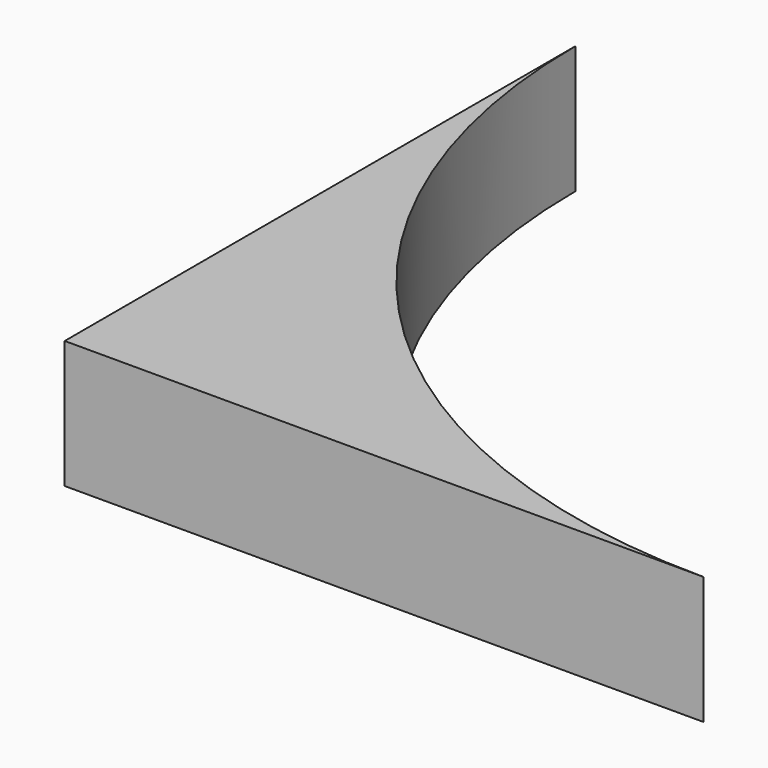
from build123d import *

# Parameters (mm, degrees)
F1_DEPTH = 10


with BuildPart() as f1:
    # F0 (on Top) → F1 (new body, symmetric)
    with BuildSketch(Plane.XY):
        with BuildLine():
            Line((0, 100), (0, 0))
            Line((0, 0), (100, 0))
            ThreePointArc((100, 0), (29.289322, 29.289322), (0, 100))
        make_face()
    extrude(amount=F1_DEPTH, both=True)


solid = f1.part
